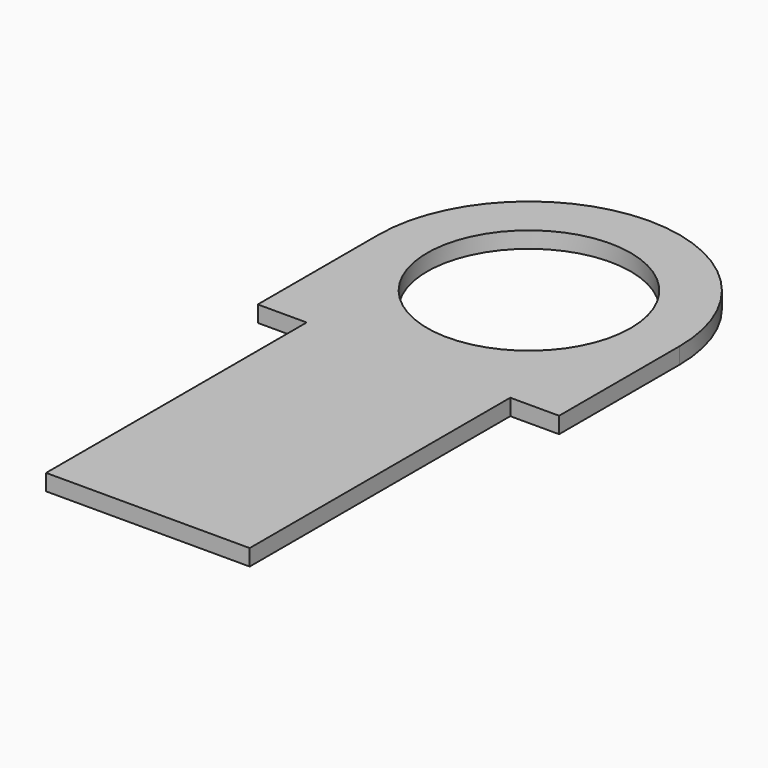
from build123d import *

# Parameters (mm, degrees)
F0_R     = 19.8501
F1_DEPTH = 3.175


with BuildPart() as f1:
    # F0 (on Top) → F1 (new body)
    with BuildSketch(Plane.XY):
        with BuildLine():
            Line((-19.8501, -29.3751), (-19.8501, -92.8751))
            Line((-19.8501, -92.8751), (19.8501, -92.8751))
            Line((19.8501, -92.8751), (19.8501, -29.3751))
            Line((19.8501, -29.3751), (29.3751, -29.3751))
            Line((29.3751, -29.3751), (29.3751, 0))
            ThreePointArc((29.3751, 0), (0, 29.3751), (-29.3751, 0))
            Line((-29.3751, 0), (-29.3751, -29.3751))
            Line((-29.3751, -29.3751), (-19.8501, -29.3751))
        make_face()
        Circle(F0_R, mode=Mode.SUBTRACT)
    extrude(amount=F1_DEPTH)


solid = f1.part
